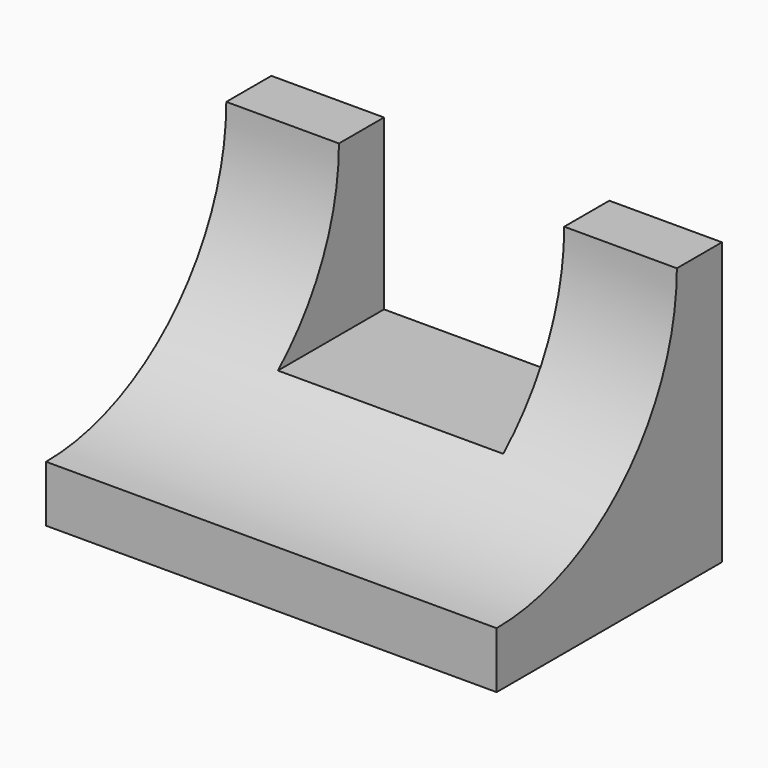
from build123d import *

# Parameters (mm, degrees)
F0_W     = 50.8
F0_H     = 31.75
F1_DEPTH = 31.75
F2_W     = 25.4
F2_H     = 19.05
F3_DEPTH = 31.751
F4_R     = 25.4
F5_DEPTH = 50.801


with BuildPart() as f1:
    # F0 (on Front) → F1 (new body)
    with BuildSketch(Plane.XZ):
        with Locations((25.4, 15.875)):
            Rectangle(F0_W, F0_H)
    extrude(amount=F1_DEPTH)

    # F2 (on face) → F3 (cut, through all)
    with BuildSketch(Plane.XZ.offset(31.75)):
        with Locations((25.4, 22.225)):
            Rectangle(F2_W, F2_H)
    extrude(amount=-F3_DEPTH, mode=Mode.SUBTRACT)

    # F4 (on face) → F5 (cut, through all)
    with BuildSketch(Plane.YZ.offset(50.8)):
        with Locations((-31.75, 31.75)):
            Circle(F4_R)
    extrude(amount=-F5_DEPTH, mode=Mode.SUBTRACT)


solid = f1.part
